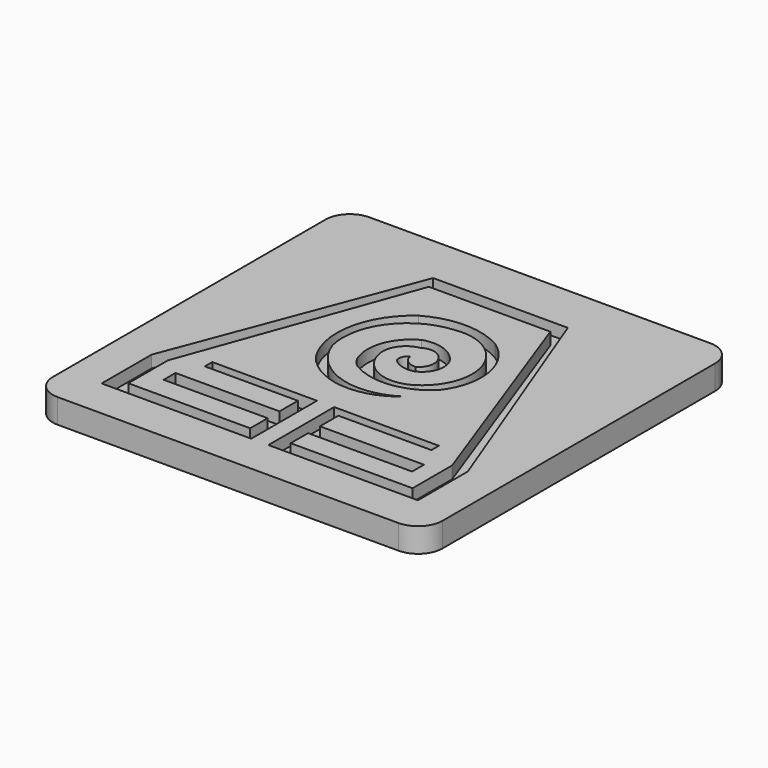
from build123d import *

# Parameters (mm, degrees)
F1_DEPTH = 6.35
F3_DEPTH = 3.175


with BuildPart() as f1:
    # F0 (on Top) → F1 (new body)
    with BuildSketch(Plane.XY):
        with BuildLine():
            Line((44.45, 50.8), (-44.45, 50.8))
            ThreePointArc((-44.45, 50.8), (-48.940128, 48.940128), (-50.8, 44.45))
            Line((-50.8, 44.45), (-50.8, -44.45))
            ThreePointArc((-50.8, -44.45), (-48.940128, -48.940128), (-44.45, -50.8))
            Line((-44.45, -50.8), (44.45, -50.8))
            ThreePointArc((44.45, -50.8), (48.940128, -48.940128), (50.8, -44.45))
            Line((50.8, -44.45), (50.8, 44.45))
            ThreePointArc((50.8, 44.45), (48.940128, 48.940128), (44.45, 50.8))
        make_face()
    extrude(amount=F1_DEPTH)

    # F2 (on face) → F3 (cut)
    with BuildSketch(Plane.XY.offset(6.35)):
        Polygon((-2.234112, -19.045804), (-29.552355, -19.045804), (-29.552355, -21.484036), (-5.271634, -21.484036), (-5.271634, -27.478021), (-32.396957, -27.478021), (-32.396957, -31.338554), (-5.271634, -31.338554), (-5.271634, -37.027761), (-37.070233, -37.027761), (-37.070233, -24.125453), (-15.844628, 34.422915), (0, 34.422915), (15.844628, 34.422915), (37.070233, -24.125453), (37.070233, -37.027761), (5.271634, -37.027761), (5.271634, -31.338554), (32.396957, -31.338554), (32.396957, -27.478021), (5.271634, -27.478021), (5.271634, -21.484036), (29.552355, -21.484036), (29.552355, -19.045804), (2.234112, -19.045804), (2.234112, -40.488526), (41.246254, -40.488526), (41.246254, -24.237618), (17.566774, 37.974838), (0, 37.974838), (-17.566774, 37.974838), (-41.246254, -24.237618), (-41.246254, -40.488526), (-2.234112, -40.488526), align=None)
        with BuildLine():
            ThreePointArc((-9.515172, 23.211), (-17.458093, 10.48697), (-14.43387, -4.204695))
            ThreePointArc((-14.43387, -4.204695), (-2.520981, -10.7353), (10.401524, -6.543092))
            ThreePointArc((10.401524, -6.543092), (-4.451794, -8.46966), (-15.078945, 2.084788))
            ThreePointArc((-15.078945, 2.084788), (-12.326603, 15.929623), (0, 22.807829))
            ThreePointArc((0, 22.807829), (6.601318, 22.159177), (12.001306, 18.307129))
            ThreePointArc((12.001306, 18.307129), (14.956093, 7.863629), (9.017832, -1.221222))
            ThreePointArc((9.017832, -1.221222), (0.186781, -1.812212), (-5.294772, 5.136839))
            ThreePointArc((-5.294772, 5.136839), (-4.342036, 9.759367), (-0.376268, 12.318302))
            ThreePointArc((-0.376268, 12.318302), (-0.337375, 12.329109), (-0.301231, 12.347085))
            ThreePointArc((-0.301231, 12.347085), (3.122709, 12.777502), (5.674904, 10.454805))
            ThreePointArc((5.674904, 10.454805), (5.988125, 7.475454), (4.115821, 5.136839))
            ThreePointArc((4.115821, 5.136839), (1.688211, 5.89567), (0.35678, 8.062788))
            ThreePointArc((0.35678, 8.062788), (-0.732404, 6.827583), (-0.7692, 5.181162))
            ThreePointArc((-0.7692, 5.181162), (-0.749973, 5.13983), (-0.722364, 5.103558))
            ThreePointArc((-0.722364, 5.103558), (1.991164, 3.466413), (5.160289, 3.455573))
            ThreePointArc((5.160289, 3.455573), (8.487959, 7.340866), (7.337417, 12.325357))
            ThreePointArc((7.337417, 12.325357), (2.944683, 15.261206), (-2.33871, 15.228196))
            ThreePointArc((-2.33871, 15.228196), (-7.7104, 9.043988), (-7.555628, 0.854024))
            ThreePointArc((-7.555628, 0.854024), (-6.427229, -0.964786), (-4.758632, -2.305359))
            ThreePointArc((-4.758632, -2.305359), (5.051029, -4.221989), (14.110706, 0))
            ThreePointArc((14.110706, 0), (17.314869, 12.413903), (10.401524, 23.211))
            ThreePointArc((10.401524, 23.211), (0.443176, 25.849161), (-9.515172, 23.211))
        make_face()
    extrude(amount=-F3_DEPTH, mode=Mode.SUBTRACT)


solid = f1.part
